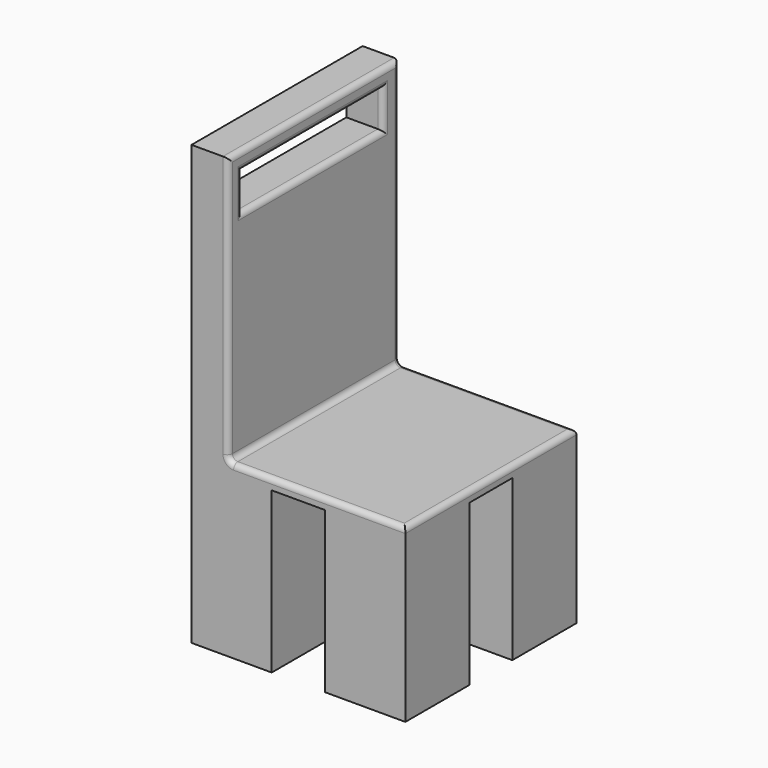
from build123d import *

# Parameters (mm, degrees)
F0_W     = 15
F0_H     = 15
F1_DEPTH = 30
F2_W     = 15
F2_H     = 15
F3_DEPTH = 2
F4_W     = 6.8767888099
F4_H     = 40
F5_DEPTH = 50
F6_W     = 32.9012749717
F6_H     = 6.8896561861
F7_DEPTH = 30
F8_R     = 1


with BuildPart() as f1:
    # F0 (on Top) → F1 (new body)
    with BuildSketch(Plane.XY):
        with Locations((42.5, 17.5)):
            Rectangle(F0_W, F0_H)
    extrude(amount=F1_DEPTH)



with BuildPart() as f1b:
    # F0 (on Top) → F1, piece 2 (new body)
    with BuildSketch(Plane.XY):
        with Locations((17.5, 17.5)):
            Rectangle(F0_W, F0_H)
    extrude(amount=F1_DEPTH)


with BuildPart() as f1c:
    # F0 (on Top) → F1, piece 3 (new body)
    with BuildSketch(Plane.XY):
        with Locations((17.5, 42.5)):
            Rectangle(F0_W, F0_H)
    extrude(amount=F1_DEPTH)


with BuildPart() as f1d:
    # F0 (on Top) → F1, piece 4 (new body)
    with BuildSketch(Plane.XY):
        with Locations((42.5, 42.5)):
            Rectangle(F0_W, F0_H)
    extrude(amount=F1_DEPTH)


with BuildPart() as f1_1:
    add(f1.part)

    add(f1b.part)  # F3 merges F1b

    add(f1c.part)  # F3 merges F1c

    add(f1d.part)  # F3 merges F1d
    # F2 (on face) → F3 (join)
    with BuildSketch(Plane.XY.offset(30)):
        with Locations((42.5, 17.5)):
            Rectangle(F2_W, F2_H)
        Polygon((10, 10), (35, 10), (35, 25), (50, 25), (50, 50), (10, 50), align=None)
    extrude(amount=F3_DEPTH)

    # F4 (on face) → F5 (join)
    with BuildSketch(Plane.XY.offset(32)):
        with Locations((13.4383944049, 30)):
            Rectangle(F4_W, F4_H)
    extrude(amount=F5_DEPTH)

    # F6 (on face) → F7 (cut)
    with BuildSketch(Plane(origin=(10, 0, 0), x_dir=(0, -1, 0), z_dir=(-1, 0, 0))):
        with Locations((-29.7453277744, 75.2560794353)):
            Rectangle(F6_W, F6_H)
    extrude(amount=-F7_DEPTH, mode=Mode.SUBTRACT)

    # F8
    f8_edges = [f1_1.edges().sort_by_distance(p)[0] for p in [
        (33.438394, 10, 32),
        (16.876789, 30, 32),
        (33.438394, 50, 32),
        (50, 30, 32),
        (16.876789, 10, 57),
        (16.876789, 30, 82),
        (16.876789, 50, 57),
        (16.876789, 29.745328, 78.700908),
        (16.876789, 46.195965, 75.256079),
        (16.876789, 29.745328, 71.811251),
        (16.876789, 13.29469, 75.256079),
    ]]
    fillet(f8_edges, radius=F8_R)


solid = f1_1.part
